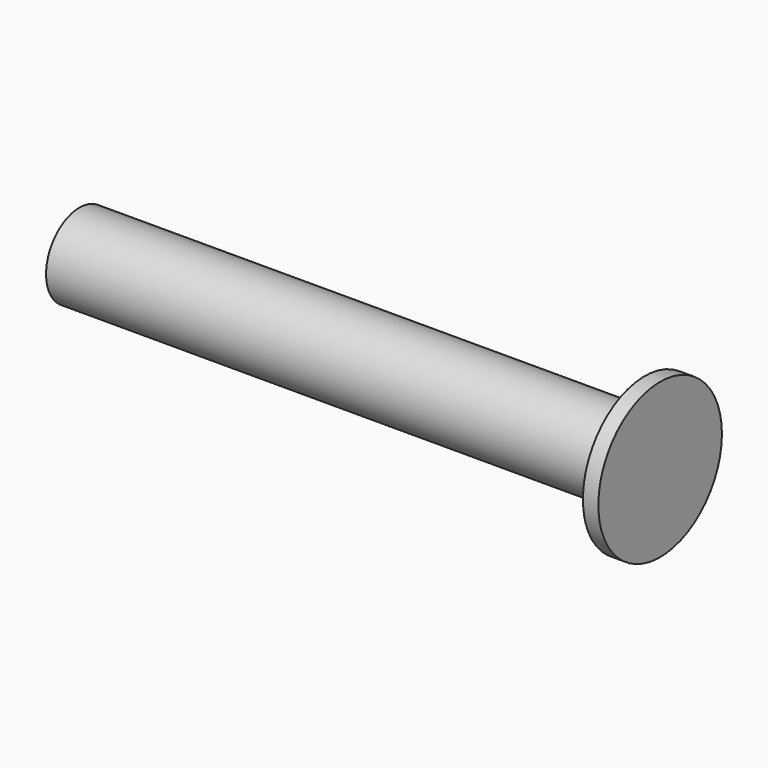
from build123d import *

# Parameters (mm, degrees)
F0_R     = 13.5
F1_DEPTH = 190
F0_R_2   = 25
F2_DEPTH = 5


with BuildPart() as f1:
    # F0 (on Right) → F1 (new body)
    with BuildSketch(Plane.YZ):
        Circle(F0_R)
    extrude(amount=-F1_DEPTH)

    # F0 (on Right) → F2 (join)
    with BuildSketch(Plane.YZ):
        Circle(F0_R_2)
        Circle(F0_R, mode=Mode.SUBTRACT)
    extrude(amount=-F2_DEPTH)

    # F4 (on face) → F5 (revolve, cut)
    with BuildSketch(Plane(origin=(0, 0, 0), x_dir=(-1, 0, 0), z_dir=(0, 1, 0))):
        Polygon((190, 13.5), (188, 13.5), (190, 10.035898), align=None)
    revolve(axis=Axis((-95, 0, 0), (-1, 0, 0)), mode=Mode.SUBTRACT)


solid = f1.part
